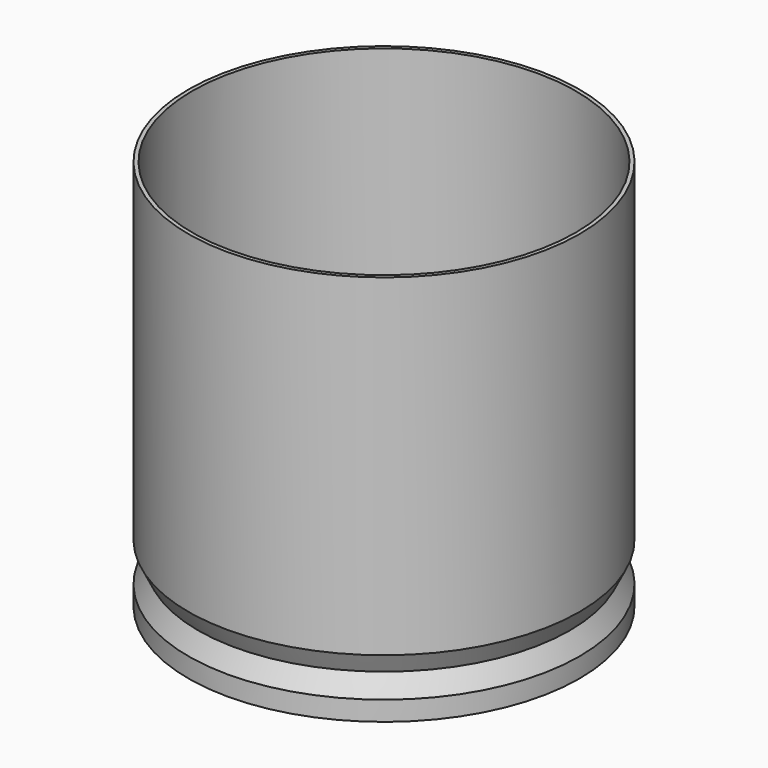
from build123d import *

# Parameters (mm, degrees)
F5_R       = 50
F9_R       = 50
F10_FACE_R = 50
F8_R       = 47.5
F11_FACE_R = 47.5
F7_R       = 50
F12_FACE_R = 50
F6_R       = 50
F14_T      = -1


with BuildPart() as f10:
    # F5 (on offset) → F10 section 0
    with BuildSketch(Plane.XY.offset(50)):
        Circle(F5_R)
    # F9 (on offset) → F10 section 1
    with BuildSketch(Plane.XY.offset(-35)):
        Circle(F9_R)
    loft()

    # F10_face (on face) → F11 section 0
    with BuildSketch(Plane(origin=(0, 0, -35), x_dir=(1, 0, 0), z_dir=(0, 0, -1))):
        Circle(F10_FACE_R)
    # F8 (on offset) → F11 section 1
    with BuildSketch(Plane.XY.offset(-40)):
        Circle(F8_R)
    loft()

    # F11_face (on face) → F12 section 0
    with BuildSketch(Plane(origin=(0, 0, -40), x_dir=(1, 0, 0), z_dir=(0, 0, -1))):
        Circle(F11_FACE_R)
    # F7 (on offset) → F12 section 1
    with BuildSketch(Plane.XY.offset(-45)):
        Circle(F7_R)
    loft()

    # F12_face (on face) → F13 section 0
    with BuildSketch(Plane(origin=(0, 0, -45), x_dir=(1, 0, 0), z_dir=(0, 0, -1))):
        Circle(F12_FACE_R)
    # F6 (on offset) → F13 section 1
    with BuildSketch(Plane.XY.offset(-50)):
        Circle(F6_R)
    loft()

    # F14
    f14_openings = [f10.faces().sort_by_distance(p)[0] for p in [
        (0, 0, 50),
    ]]
    offset(amount=F14_T, openings=f14_openings, kind=Kind.INTERSECTION)


solid = f10.part
